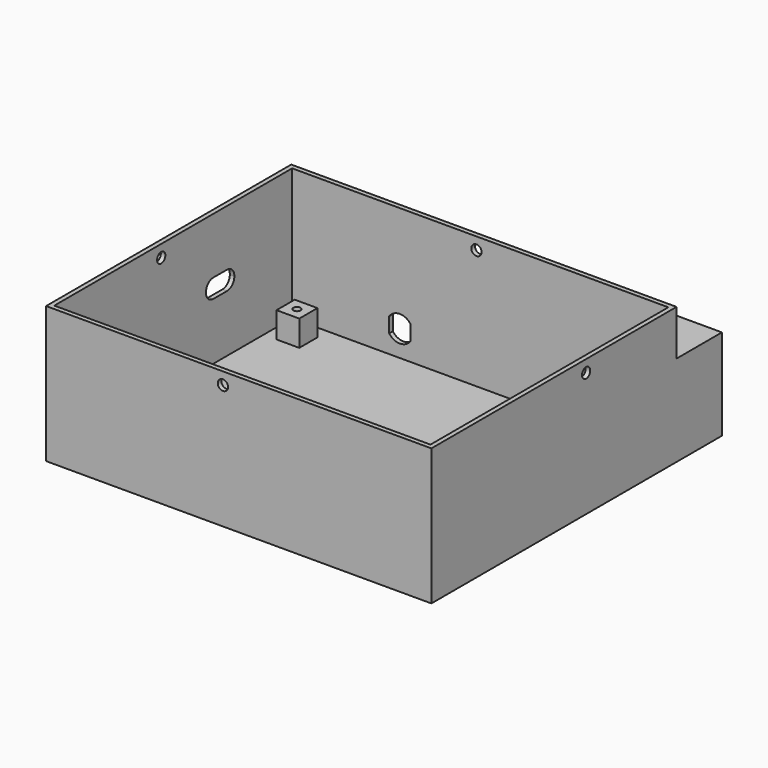
from build123d import *

# Parameters (mm, degrees)
BOX054_W          = 2
BOX054_H          = 2
BOX054_DEPTH      = 2
BOX051_W          = 47.5
BOX051_H          = 17.2
BOX051_DEPTH      = 27
BOX050_W          = 47.5
BOX050_H          = 18.7
BOX050_DEPTH      = 30
BOX053_W          = 10
BOX053_H          = 11.7
BOX053_DEPTH      = 6.2
FILLET001_R       = 3.05
CYLINDER038_R     = 1.7
CYLINDER038_DEPTH = 10
CYLINDER037_R     = 1.7
CYLINDER037_DEPTH = 10
CYLINDER036_R     = 1.7
CYLINDER036_DEPTH = 10
CYLINDER035_R     = 1.7
CYLINDER035_DEPTH = 10
BOX024_W          = 10
BOX024_H          = 10
BOX024_DEPTH      = 10
BOX025_W          = 10
BOX025_H          = 10
BOX025_DEPTH      = 10
CYLINDER023_R     = 4.3
CYLINDER023_DEPTH = 5
CYLINDER019_R     = 1.2
CYLINDER019_DEPTH = 10
BOX013_W          = 4.5
BOX013_H          = 4.5
BOX013_DEPTH      = 10
BOX012_W          = 7.5
BOX012_H          = 7.5
BOX012_DEPTH      = 10
CYLINDER020_R     = 1.2
CYLINDER020_DEPTH = 10
BOX015_W          = 4.5
BOX015_H          = 4.5
BOX015_DEPTH      = 10
BOX014_W          = 7.5
BOX014_H          = 7.5
BOX014_DEPTH      = 10
CYLINDER021_R     = 1.2
CYLINDER021_DEPTH = 10
BOX017_W          = 4.5
BOX017_H          = 4.5
BOX017_DEPTH      = 10
BOX016_W          = 7.5
BOX016_H          = 7.5
BOX016_DEPTH      = 10
CYLINDER022_R     = 1.2
CYLINDER022_DEPTH = 10
BOX019_W          = 4.5
BOX019_H          = 4.5
BOX019_DEPTH      = 10
BOX018_W          = 7.5
BOX018_H          = 7.5
BOX018_DEPTH      = 10
BOX022_W          = 4.5
BOX022_H          = 4.5
BOX022_DEPTH      = 10
BOX021_W          = 4.5
BOX021_H          = 4.5
BOX021_DEPTH      = 10
BOX023_W          = 4.5
BOX023_H          = 4.5
BOX023_DEPTH      = 10
CYLINDER016_R     = 1.2
CYLINDER016_DEPTH = 100
BOX020_W          = 4.5
BOX020_H          = 4.5
BOX020_DEPTH      = 10
CYLINDER015_R     = 1.2
CYLINDER015_DEPTH = 100
BOX010_W          = 124
BOX010_H          = 98
BOX010_DEPTH      = 45
BOX009_W          = 127
BOX009_H          = 101
BOX009_DEPTH      = 45


with BuildPart() as cube054:
    # Box054 → Box054 (new body)
    with BuildSketch(Plane(origin=(77.5, 107.7, 14), x_dir=(1, 0, 0), z_dir=(0, 0, 1))):
        with Locations((1, 1)):
            Rectangle(BOX054_W, BOX054_H)
    extrude(amount=BOX054_DEPTH)


with BuildPart() as cube051:
    # Box051 → Box051 (new body)
    with BuildSketch(Plane(origin=(-1.5, 0, 60), x_dir=(1, 0, 0), z_dir=(0, 0, 1))):
        with Locations((23.75, 8.6)):
            Rectangle(BOX051_W, BOX051_H)
    extrude(amount=BOX051_DEPTH)


with BuildPart() as batteryholder:
    # Box050 → Box050 (new body)
    with BuildSketch(Plane.XY.offset(58.5)):
        with Locations((23.75, 9.35)):
            Rectangle(BOX050_W, BOX050_H)
    extrude(amount=BOX050_DEPTH)

    # Cut062: cut Cube051
    add(cube051.part, mode=Mode.SUBTRACT)


with BuildPart() as batteryholder_1:
    # Cut062 placement: moved
    add(batteryholder.part.moved(Location((77.5, 91, -58.5))))

    # Fusion004: union Cube054
    add(cube054.part)


with BuildPart() as fillet001:
    # Box053 → Box053 (new body)
    with BuildSketch(Plane(origin=(0, -50, 10.3), x_dir=(1, 0, 0), z_dir=(0, 0, 1))):
        with Locations((5, 5.85)):
            Rectangle(BOX053_W, BOX053_H)
    extrude(amount=BOX053_DEPTH)

    # Fillet001
    fillet001_edges = [fillet001.edges().sort_by_distance(p)[0] for p in [
        (5, -50, 10.3),
        (5, -50, 16.5),
        (5, -38.3, 10.3),
        (5, -38.3, 16.5),
    ]]
    fillet(fillet001_edges, radius=FILLET001_R)


with BuildPart() as fillet001_1:
    # Fillet001 placement: moved
    add(fillet001.part.moved(Location((-5, 104, 10))))


with BuildPart() as cylinder038:
    # Cylinder038 → Cylinder038 (new body)
    with BuildSketch(Plane(origin=(126.15, 53.74, 41), x_dir=(0, 0, 1), z_dir=(-1, 0, 0))):
        Circle(CYLINDER038_R)
    extrude(amount=CYLINDER038_DEPTH)


with BuildPart() as cylinder037:
    # Cylinder037 → Cylinder037 (new body)
    with BuildSketch(Plane(origin=(56.29, -11.48, 41), x_dir=(0, 0, 1), z_dir=(0, 1, 0))):
        Circle(CYLINDER037_R)
    extrude(amount=CYLINDER037_DEPTH)


with BuildPart() as cylinder036:
    # Cylinder036 → Cylinder036 (new body)
    with BuildSketch(Plane(origin=(60.26, 82.82, 41), x_dir=(0, 0, 1), z_dir=(0, 1, 0))):
        Circle(CYLINDER036_R)
    extrude(amount=CYLINDER036_DEPTH)


with BuildPart() as cylinder035:
    # Cylinder035 → Cylinder035 (new body)
    with BuildSketch(Plane(origin=(6.21, 35.56, 41), x_dir=(0, 0, 1), z_dir=(-1, 0, 0))):
        Circle(CYLINDER035_R)
    extrude(amount=CYLINDER035_DEPTH)


with BuildPart() as cube024:
    # Box024 → Box024 (new body)
    with BuildSketch(Plane(origin=(53.5, -105, 4), x_dir=(1, 0, 0), z_dir=(0, 0, 1))):
        with Locations((5, 5)):
            Rectangle(BOX024_W, BOX024_H)
    extrude(amount=BOX024_DEPTH)


with BuildPart() as cube025:
    # Box025 → Box025 (new body)
    with BuildSketch(Plane(origin=(36.5, -105, 4), x_dir=(1, 0, 0), z_dir=(0, 0, 1))):
        with Locations((5, 5)):
            Rectangle(BOX025_W, BOX025_H)
    extrude(amount=BOX025_DEPTH)


with BuildPart() as cut034:
    # Cylinder023 → Cylinder023 (new body)
    with BuildSketch(Plane(origin=(50, -100, 9), x_dir=(1, 0, 0), z_dir=(0, -1, 0))):
        Circle(CYLINDER023_R)
    extrude(amount=CYLINDER023_DEPTH)

    # Cut033: cut Cube025
    add(cube025.part, mode=Mode.SUBTRACT)

    # Cut034: cut Cube024
    add(cube024.part, mode=Mode.SUBTRACT)


with BuildPart() as cut034_1:
    # Cut034 placement: moved
    add(cut034.part.moved(Location((-15, 193, 1))))


with BuildPart() as cylinder019:
    # Cylinder019 → Cylinder019 (new body)
    with BuildSketch(Plane(origin=(7.5, 16.5, 105), x_dir=(1, 0, 0), z_dir=(0, 0, 1))):
        Circle(CYLINDER019_R)
    extrude(amount=CYLINDER019_DEPTH)


with BuildPart() as cube013:
    # Box013 → Box013 (new body)
    with BuildSketch(Plane(origin=(5.25, 14.25, 98.5), x_dir=(1, 0, 0), z_dir=(0, 0, 1))):
        with Locations((2.25, 2.25)):
            Rectangle(BOX013_W, BOX013_H)
    extrude(amount=BOX013_DEPTH)


with BuildPart() as cut008:
    # Box012 → Box012 (new body)
    with BuildSketch(Plane(origin=(3.75, 12.75, 100), x_dir=(1, 0, 0), z_dir=(0, 0, 1))):
        with Locations((3.75, 3.75)):
            Rectangle(BOX012_W, BOX012_H)
    extrude(amount=BOX012_DEPTH)

    # Cut007: cut Cube013
    add(cube013.part, mode=Mode.SUBTRACT)

    # Cut008: cut Cylinder019
    add(cylinder019.part, mode=Mode.SUBTRACT)


with BuildPart() as cut008_1:
    # Cut008 placement: moved
    add(cut008.part.moved(Location((0, 0, -100))))


with BuildPart() as cylinder020:
    # Cylinder020 → Cylinder020 (new body)
    with BuildSketch(Plane(origin=(7.5, 16.5, 105), x_dir=(1, 0, 0), z_dir=(0, 0, 1))):
        Circle(CYLINDER020_R)
    extrude(amount=CYLINDER020_DEPTH)


with BuildPart() as cube015:
    # Box015 → Box015 (new body)
    with BuildSketch(Plane(origin=(5.25, 14.25, 98.5), x_dir=(1, 0, 0), z_dir=(0, 0, 1))):
        with Locations((2.25, 2.25)):
            Rectangle(BOX015_W, BOX015_H)
    extrude(amount=BOX015_DEPTH)


with BuildPart() as cut010:
    # Box014 → Box014 (new body)
    with BuildSketch(Plane(origin=(3.75, 12.75, 100), x_dir=(1, 0, 0), z_dir=(0, 0, 1))):
        with Locations((3.75, 3.75)):
            Rectangle(BOX014_W, BOX014_H)
    extrude(amount=BOX014_DEPTH)

    # Cut011: cut Cube015
    add(cube015.part, mode=Mode.SUBTRACT)

    # Cut010: cut Cylinder020
    add(cylinder020.part, mode=Mode.SUBTRACT)


with BuildPart() as cut010_1:
    # Cut010 placement: moved
    add(cut010.part.moved(Location((85, 0, -100))))


with BuildPart() as cylinder021:
    # Cylinder021 → Cylinder021 (new body)
    with BuildSketch(Plane(origin=(7.5, 16.5, 105), x_dir=(1, 0, 0), z_dir=(0, 0, 1))):
        Circle(CYLINDER021_R)
    extrude(amount=CYLINDER021_DEPTH)


with BuildPart() as cube017:
    # Box017 → Box017 (new body)
    with BuildSketch(Plane(origin=(5.25, 14.25, 98.5), x_dir=(1, 0, 0), z_dir=(0, 0, 1))):
        with Locations((2.25, 2.25)):
            Rectangle(BOX017_W, BOX017_H)
    extrude(amount=BOX017_DEPTH)


with BuildPart() as cut013:
    # Box016 → Box016 (new body)
    with BuildSketch(Plane(origin=(3.75, 12.75, 100), x_dir=(1, 0, 0), z_dir=(0, 0, 1))):
        with Locations((3.75, 3.75)):
            Rectangle(BOX016_W, BOX016_H)
    extrude(amount=BOX016_DEPTH)

    # Cut012: cut Cube017
    add(cube017.part, mode=Mode.SUBTRACT)

    # Cut013: cut Cylinder021
    add(cylinder021.part, mode=Mode.SUBTRACT)


with BuildPart() as cut013_1:
    # Cut013 placement: moved
    add(cut013.part.moved(Location((85, 65, -100))))


with BuildPart() as cylinder022:
    # Cylinder022 → Cylinder022 (new body)
    with BuildSketch(Plane(origin=(7.5, 16.5, 105), x_dir=(1, 0, 0), z_dir=(0, 0, 1))):
        Circle(CYLINDER022_R)
    extrude(amount=CYLINDER022_DEPTH)


with BuildPart() as cube019:
    # Box019 → Box019 (new body)
    with BuildSketch(Plane(origin=(5.25, 14.25, 98.5), x_dir=(1, 0, 0), z_dir=(0, 0, 1))):
        with Locations((2.25, 2.25)):
            Rectangle(BOX019_W, BOX019_H)
    extrude(amount=BOX019_DEPTH)


with BuildPart() as cut014:
    # Box018 → Box018 (new body)
    with BuildSketch(Plane(origin=(3.75, 12.75, 100), x_dir=(1, 0, 0), z_dir=(0, 0, 1))):
        with Locations((3.75, 3.75)):
            Rectangle(BOX018_W, BOX018_H)
    extrude(amount=BOX018_DEPTH)

    # Cut015: cut Cube019
    add(cube019.part, mode=Mode.SUBTRACT)

    # Cut014: cut Cylinder022
    add(cylinder022.part, mode=Mode.SUBTRACT)


with BuildPart() as cut014_1:
    # Cut014 placement: moved
    add(cut014.part.moved(Location((0, 65, -100))))


with BuildPart() as cube022:
    # Box022 → Box022 (new body)
    with BuildSketch(Plane(origin=(90.25, 79.25, -2), x_dir=(1, 0, 0), z_dir=(0, 0, 1))):
        with Locations((2.25, 2.25)):
            Rectangle(BOX022_W, BOX022_H)
    extrude(amount=BOX022_DEPTH)


with BuildPart() as cube021:
    # Box021 → Box021 (new body)
    with BuildSketch(Plane(origin=(5.25, 79.25, -2), x_dir=(1, 0, 0), z_dir=(0, 0, 1))):
        with Locations((2.25, 2.25)):
            Rectangle(BOX021_W, BOX021_H)
    extrude(amount=BOX021_DEPTH)


with BuildPart() as cube023:
    # Box023 → Box023 (new body)
    with BuildSketch(Plane(origin=(90.25, 14.25, -2), x_dir=(1, 0, 0), z_dir=(0, 0, 1))):
        with Locations((2.25, 2.25)):
            Rectangle(BOX023_W, BOX023_H)
    extrude(amount=BOX023_DEPTH)


with BuildPart() as cylinder016:
    # Cylinder016 → Cylinder016 (new body)
    with BuildSketch(Plane(origin=(92.5, 16.5, -25), x_dir=(1, 0, 0), z_dir=(0, 0, 1))):
        Circle(CYLINDER016_R)
    extrude(amount=CYLINDER016_DEPTH)


with BuildPart() as cube020:
    # Box020 → Box020 (new body)
    with BuildSketch(Plane(origin=(5.25, 14.25, -2), x_dir=(1, 0, 0), z_dir=(0, 0, 1))):
        with Locations((2.25, 2.25)):
            Rectangle(BOX020_W, BOX020_H)
    extrude(amount=BOX020_DEPTH)


with BuildPart() as cylinder015:
    # Cylinder015 → Cylinder015 (new body)
    with BuildSketch(Plane(origin=(7.5, 16.5, -25), x_dir=(1, 0, 0), z_dir=(0, 0, 1))):
        Circle(CYLINDER015_R)
    extrude(amount=CYLINDER015_DEPTH)


with BuildPart() as cube010:
    # Box010 → Box010 (new body)
    with BuildSketch(Plane(origin=(-0.5, -8.5, 1.5), x_dir=(1, 0, 0), z_dir=(0, 0, 1))):
        with Locations((62, 49)):
            Rectangle(BOX010_W, BOX010_H)
    extrude(amount=BOX010_DEPTH)


with BuildPart() as controlbox:
    # Box009 → Box009 (new body)
    with BuildSketch(Plane(origin=(-2, -10, 0), x_dir=(1, 0, 0), z_dir=(0, 0, 1))):
        with Locations((63.5, 50.5)):
            Rectangle(BOX009_W, BOX009_H)
    extrude(amount=BOX009_DEPTH)

    # Cut006: cut Cube010
    add(cube010.part, mode=Mode.SUBTRACT)

    # Cut009: cut Cylinder015
    add(cylinder015.part, mode=Mode.SUBTRACT)

    # Cut016: cut Cube020
    add(cube020.part, mode=Mode.SUBTRACT)

    # Cut017: cut Cylinder016
    add(cylinder016.part, mode=Mode.SUBTRACT)

    # Cut018: cut Cube023
    add(cube023.part, mode=Mode.SUBTRACT)

    # Cut019: cut Cube021
    add(cube021.part, mode=Mode.SUBTRACT)

    # Cut020: cut Cube022
    add(cube022.part, mode=Mode.SUBTRACT)

    # Connect: union Cut014
    add(cut014_1.part)

    # Connect001: union Cut013
    add(cut013_1.part)

    # Connect002: union Cut010
    add(cut010_1.part)

    # Connect003: union Cut008
    add(cut008_1.part)

    # Cut043: cut Cut034
    add(cut034_1.part, mode=Mode.SUBTRACT)

    # Cut058: cut Cylinder035
    add(cylinder035.part, mode=Mode.SUBTRACT)

    # Cut059: cut Cylinder036
    add(cylinder036.part, mode=Mode.SUBTRACT)

    # Cut060: cut Cylinder037
    add(cylinder037.part, mode=Mode.SUBTRACT)

    # Cut061: cut Cylinder038
    add(cylinder038.part, mode=Mode.SUBTRACT)

    # Cut064: cut Fillet001
    add(fillet001_1.part, mode=Mode.SUBTRACT)

    # Fusion006: union BatteryHolder
    add(batteryholder_1.part)


with BuildPart() as controlbox_1:
    # Fusion006 placement: moved
    add(controlbox.part.moved(Location((0, -79, 0))))


solid = controlbox_1.part
